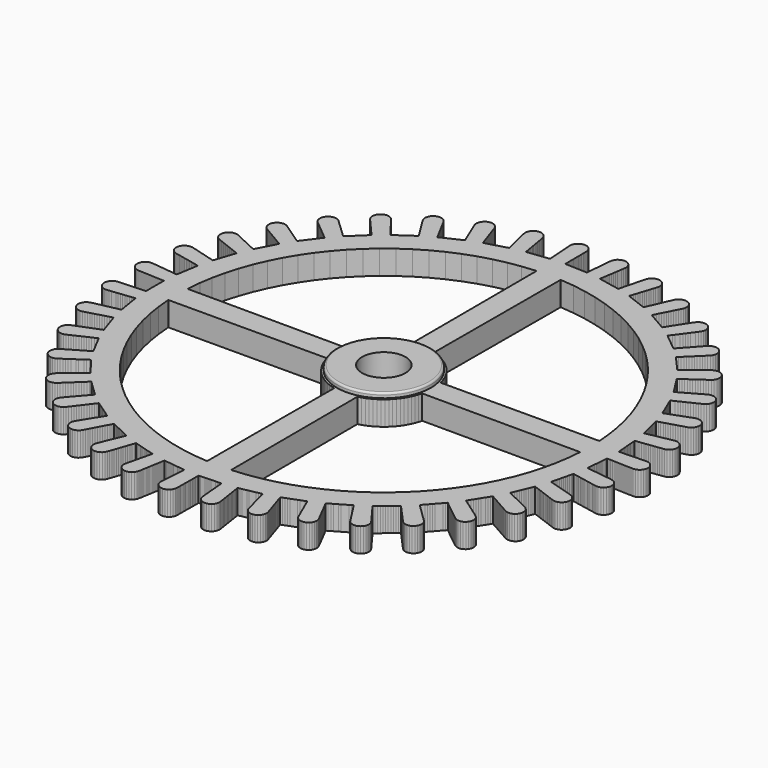
from build123d import *

# Parameters (mm, degrees)
F0_R     = 4.5
F1_DEPTH = 5
F2_R     = 9.75
F2_R_2   = 4.5
F3_DEPTH = 1
F4_R     = 0.4


with BuildPart() as f1:
    # F0 (on Top) → F1 (new body)
    with BuildSketch(Plane.XY):
        Polygon((45.239153, -1.909437), (45.270371, -1.52273), (45.6395, -1.534571), (46.060859, -1.548087), (46.482217, -1.561604), (46.931452, -1.576015), (47.35281, -1.589531), (47.774169, -1.603048), (48.223404, -1.617459), (48.644762, -1.630975), (49.066121, -1.644492), (49.515355, -1.658903), (49.936714, -1.672419), (50.358073, -1.685936), (50.807307, -1.700347), (51.252648, -1.648349), (51.668899, -1.481714), (52.027098, -1.212037), (52.302322, -0.858082), (52.47542, -0.444477), (52.534348, 0), (52.47542, 0.444477), (52.302322, 0.858082), (52.027098, 1.212037), (51.668899, 1.481714), (51.252648, 1.648349), (50.807307, 1.700347), (50.385949, 1.68683), (49.96459, 1.673313), (49.515355, 1.658903), (49.093997, 1.645386), (48.672638, 1.63187), (48.223404, 1.617459), (47.802045, 1.603942), (47.380686, 1.590426), (46.931452, 1.576015), (46.510093, 1.562498), (46.088734, 1.548982), (45.6395, 1.534571), (45.270371, 1.52273), (45.236448, 1.942938), (45.202525, 2.363147), (45.168603, 2.783355), (45.13468, 3.203564), (45.100757, 3.623772), (45.066834, 4.043981), (45.032912, 4.464189), (44.998989, 4.884398), (44.965066, 5.304606), (44.931143, 5.724814), (44.899925, 6.111521), (45.317996, 6.16577), (45.736066, 6.22002), (46.181795, 6.277858), (46.599865, 6.332107), (47.017936, 6.386356), (47.463664, 6.444194), (47.881735, 6.498443), (48.299805, 6.552692), (48.745534, 6.61053), (49.163604, 6.66478), (49.581675, 6.719029), (50.027403, 6.776867), (50.482257, 6.83974), (50.906394, 6.985137), (51.277757, 7.236376), (51.570508, 7.575977), (51.764277, 7.980311), (51.845582, 8.421244), (51.808847, 8.868111), (51.656861, 9.289932), (51.399868, 9.657337), (51.055748, 9.944763), (50.648445, 10.13221), (50.206299, 10.206637), (50.116377, 10.20736), (49.666917, 10.145597), (49.253183, 10.064664), (48.839449, 9.983732), (48.398344, 9.897446), (47.98461, 9.816513), (47.570876, 9.735581), (47.129771, 9.649295), (46.716036, 9.568363), (46.302302, 9.48743), (45.861197, 9.401144), (45.447463, 9.320212), (45.033729, 9.239279), (44.592624, 9.152993), (44.411399, 9.117543), (44.310509, 9.526868), (44.20962, 9.936194), (44.10873, 10.345519), (44.007841, 10.754844), (43.906951, 11.164169), (43.806061, 11.573495), (43.705172, 11.98282), (43.604282, 12.392145), (43.503392, 12.801471), (43.402503, 13.210796), (43.309657, 13.587487), (43.713611, 13.708097), (44.117566, 13.828707), (44.548244, 13.957296), (44.952199, 14.077906), (45.356153, 14.198516), (45.786832, 14.327105), (46.190786, 14.447714), (46.59474, 14.568324), (47.025419, 14.696913), (47.429373, 14.817523), (47.833328, 14.938133), (48.264006, 15.066722), (48.702884, 15.201745), (49.098205, 15.413295), (49.424458, 15.720852), (49.658942, 16.103016), (49.785342, 16.533196), (49.794863, 16.981461), (49.686921, 17.416649), (49.469239, 17.808627), (49.156638, 18.13005), (48.770868, 18.358553), (48.338771, 18.478237), (48.06971, 18.494014), (47.626587, 18.42565), (47.194615, 18.26994), (46.799221, 18.123688), (46.403827, 17.977436), (45.982276, 17.821509), (45.586882, 17.675257), (45.191488, 17.529006), (44.769936, 17.373078), (44.374542, 17.226826), (43.979148, 17.080575), (43.557597, 16.924647), (43.162203, 16.778396), (42.766809, 16.632144), (42.345257, 16.476216), (42.180014, 16.864057), (42.01477, 17.251898), (41.849527, 17.639739), (41.684283, 18.02758), (41.51904, 18.415421), (41.353796, 18.803261), (41.188553, 19.191102), (41.023309, 19.578943), (40.858066, 19.966784), (40.692822, 20.354625), (40.540753, 20.711544), (40.920129, 20.895391), (41.299505, 21.079238), (41.703979, 21.275247), (42.083355, 21.459094), (42.462732, 21.642941), (42.867206, 21.838951), (43.246582, 22.022797), (43.625958, 22.206644), (44.030432, 22.402654), (44.409808, 22.586501), (44.789185, 22.770347), (45.193659, 22.966357), (45.605194, 23.170032), (45.961461, 23.442256), (46.234153, 23.798165), (46.404298, 24.212994), (46.460055, 24.65788), (46.397546, 25.101867), (46.221193, 25.514105), (45.943452, 25.866088), (45.583339, 26.133204), (45.16591, 26.296866), (44.72021, 26.345687), (44.27725, 26.276269), (43.894918, 26.09865), (43.524046, 25.898202), (43.142266, 25.68351), (42.775453, 25.475727), (42.40864, 25.267943), (42.01756, 25.046413), (41.650747, 24.83863), (41.283933, 24.630846), (40.892853, 24.409317), (40.52604, 24.201533), (40.159227, 23.99375), (39.768147, 23.77222), (39.401333, 23.564436), (39.125457, 23.408165), (38.900139, 23.764476), (38.674822, 24.120788), (38.449504, 24.477099), (38.224186, 24.83341), (37.998869, 25.189722), (37.773551, 25.546033), (37.548233, 25.902345), (37.322915, 26.258656), (37.097598, 26.614968), (36.87228, 26.971279), (36.664926, 27.299183), (37.009898, 27.541505), (37.354871, 27.783828), (37.722665, 28.042181), (38.067637, 28.284503), (38.412609, 28.526826), (38.780404, 28.785179), (39.125376, 29.027501), (39.470348, 29.269824), (39.838142, 29.528177), (40.183114, 29.7705), (40.528087, 30.012822), (40.895881, 30.271175), (41.269415, 30.538228), (41.577401, 30.864076), (41.78947, 31.259119), (41.890868, 31.695869), (41.874538, 32.143938), (41.741618, 32.572149), (41.501421, 32.950758), (41.170815, 33.253631), (40.772517, 33.459521), (40.33424, 33.554104), (40.154521, 33.559022), (39.711727, 33.488552), (39.302764, 33.304754), (38.96816, 33.048305), (38.637907, 32.786277), (38.291199, 32.508467), (37.962467, 32.244533), (37.633735, 31.980599), (37.283255, 31.699205), (36.954523, 31.435271), (36.62579, 31.171337), (36.275311, 30.889943), (35.946578, 30.626009), (35.617846, 30.362075), (35.267366, 30.08068), (34.938634, 29.816747), (34.83539, 29.733854), (34.555834, 30.049408), (34.276277, 30.364961), (33.996721, 30.680515), (33.717165, 30.996069), (33.437609, 31.311623), (33.158052, 31.627177), (32.878496, 31.94273), (32.59894, 32.258284), (32.319383, 32.573838), (32.039827, 32.889392), (31.782559, 33.179788), (32.084193, 33.474309), (32.385826, 33.768831), (32.707415, 34.082837), (33.009049, 34.377359), (33.310682, 34.671881), (33.632271, 34.985887), (33.933905, 35.280409), (34.235538, 35.57493), (34.557127, 35.888936), (34.858761, 36.183458), (35.160394, 36.47798), (35.481983, 36.791986), (35.807842, 37.115499), (36.059569, 37.486532), (36.205523, 37.910478), (36.235548, 38.357838), (36.147554, 38.797484), (35.947666, 39.198828), (35.649846, 39.534005), (35.274937, 39.779922), (34.848769, 39.919255), (34.580713, 39.947328), (34.134925, 39.899314), (33.7172, 39.736408), (33.356604, 39.469945), (33.046474, 39.131324), (32.764337, 38.818076), (32.4822, 38.504827), (32.181397, 38.170856), (31.89926, 37.857608), (31.617123, 37.544359), (31.31632, 37.210388), (31.034183, 36.897139), (30.752046, 36.583891), (30.451243, 36.24992), (30.169106, 35.936671), (29.886968, 35.623423), (29.586166, 35.289452), (29.259612, 35.556075), (28.933057, 35.822699), (28.606503, 36.089322), (28.279948, 36.355946), (27.953394, 36.622569), (27.626839, 36.889192), (27.300285, 37.155816), (26.97373, 37.422439), (26.647176, 37.689063), (26.320621, 37.955686), (26.020102, 38.201053), (26.270585, 38.540146), (26.521068, 38.879239), (26.788122, 39.240766), (27.038605, 39.579859), (27.289088, 39.918952), (27.556142, 40.280478), (27.806625, 40.619572), (28.057108, 40.958665), (28.324162, 41.320191), (28.574645, 41.659284), (28.825128, 41.998377), (29.092182, 42.359904), (29.361926, 42.731499), (29.550875, 43.138107), (29.626933, 43.579975), (29.584808, 44.026358), (29.42743, 44.446197), (29.165749, 44.810279), (28.81802, 45.093341), (28.408518, 45.275934), (27.965519, 45.345101), (27.519847, 45.296027), (27.10251, 45.132129), (26.742549, 44.864809), (26.486555, 44.529857), (26.251317, 44.180015), (26.01304, 43.812494), (25.784805, 43.458044), (25.55657, 43.103594), (25.313235, 42.725696), (25.085, 42.371246), (24.856765, 42.016796), (24.613431, 41.638897), (24.385195, 41.284447), (24.15696, 40.929998), (23.913626, 40.552099), (23.685391, 40.197649), (23.513738, 39.931071), (23.148643, 40.141859), (22.783547, 40.352647), (22.418452, 40.563434), (22.053357, 40.774222), (21.688262, 40.98501), (21.323167, 41.195798), (20.958072, 41.406585), (20.592977, 41.617373), (20.227882, 41.828161), (19.862787, 42.038949), (19.526799, 42.232931), (19.719644, 42.607813), (19.912489, 42.982696), (20.118092, 43.382379), (20.310937, 43.757261), (20.503782, 44.132144), (20.709385, 44.531827), (20.90223, 44.906709), (21.095074, 45.281591), (21.300677, 45.681274), (21.493522, 46.056157), (21.686367, 46.431039), (21.89197, 46.830722), (22.098613, 47.240775), (22.219891, 47.672428), (22.224083, 48.120774), (22.110899, 48.554619), (21.888212, 48.943776), (21.571517, 49.261166), (21.182885, 49.484784), (20.749396, 49.599324), (20.57009, 49.612461), (20.124535, 49.562329), (19.70759, 49.397439), (19.348264, 49.129264), (19.071561, 48.776465), (18.894461, 48.393892), (18.723808, 48.008401), (18.545918, 47.60129), (18.377496, 47.214818), (18.209074, 46.828347), (18.02951, 46.416308), (17.861088, 46.029837), (17.692667, 45.643366), (17.513103, 45.231327), (17.344681, 44.844856), (17.176259, 44.458385), (16.996695, 44.046346), (16.828273, 43.659875), (16.775377, 43.538497), (16.381197, 43.68799), (15.987018, 43.837482), (15.592838, 43.986975), (15.198658, 44.136468), (14.804478, 44.285961), (14.410298, 44.435453), (14.016118, 44.584946), (13.621938, 44.734439), (13.227758, 44.883932), (12.833578, 45.033424), (12.470825, 45.170999), (12.601037, 45.571961), (12.731249, 45.972923), (12.870076, 46.400411), (13.000288, 46.801373), (13.1305, 47.202336), (13.269327, 47.629824), (13.399539, 48.030786), (13.529752, 48.431748), (13.668578, 48.859237), (13.79879, 49.260199), (13.929003, 49.661161), (14.067829, 50.08865), (14.206019, 50.526541), (14.256485, 50.972058), (14.188703, 51.415271), (14.00739, 51.825341), (13.725162, 52.173737), (13.361656, 52.436216), (12.942185, 52.594596), (12.585858, 52.63889), (12.140423, 52.587698), (11.723871, 52.421818), (11.365184, 52.15279), (11.08932, 51.799334), (10.915474, 51.386043), (10.811227, 50.977559), (10.706981, 50.569076), (10.595838, 50.133569), (10.491591, 49.725086), (10.387345, 49.316602), (10.276202, 48.881095), (10.171955, 48.472612), (10.067709, 48.064129), (9.956566, 47.628622), (9.852319, 47.220139), (9.748073, 46.811655), (9.63693, 46.376148), (9.545605, 46.018299), (9.13255, 46.102625), (8.719494, 46.18695), (8.306438, 46.271276), (7.893382, 46.355602), (7.480327, 46.439928), (7.067271, 46.524254), (6.654215, 46.60858), (6.24116, 46.692906), (5.828104, 46.777232), (5.415048, 46.861558), (5.034924, 46.939161), (5.099131, 47.355818), (5.163338, 47.772476), (5.231793, 48.216697), (5.296, 48.633355), (5.360208, 49.050012), (5.428662, 49.494234), (5.49287, 49.910891), (5.557077, 50.327549), (5.625532, 50.771771), (5.689739, 51.188428), (5.753946, 51.605085), (5.822401, 52.049307), (5.888559, 52.503695), (5.866905, 52.951538), (5.728905, 53.378138), (5.48416, 53.753814), (5.1497, 54.052425), (4.748796, 54.253195), (4.309351, 54.342237), (4.219506, 54.346006), (3.774195, 54.293756), (3.358038, 54.126885), (2.999992, 53.857005), (2.724969, 53.502894), (2.552105, 53.089191), (2.486382, 52.640293), (2.449011, 52.220378), (2.411639, 51.800462), (2.371796, 51.352766), (2.334425, 50.93285), (2.297054, 50.512934), (2.25721, 50.065238), (2.219839, 49.645322), (2.182468, 49.225407), (2.142624, 48.777711), (2.105253, 48.357795), (2.067882, 47.937879), (2.028038, 47.490183), (2.011669, 47.30625), (1.590435, 47.323226), (1.169202, 47.340201), (0.747968, 47.357176), (0.326735, 47.374151), (-0.094499, 47.391126), (-0.515733, 47.408101), (-0.936966, 47.425076), (-1.3582, 47.442052), (-1.779434, 47.459027), (-2.200667, 47.476002), (-2.588317, 47.491624), (-2.591778, 47.913185), (-2.595239, 48.334746), (-2.598929, 48.784196), (-2.602389, 49.205758), (-2.60585, 49.627319), (-2.60954, 50.076769), (-2.613001, 50.498331), (-2.616462, 50.919892), (-2.620151, 51.369342), (-2.623612, 51.790903), (-2.627073, 52.212465), (-2.630763, 52.661915), (-2.638351, 53.121031), (-2.731563, 53.559601), (-2.936208, 53.95854), (-3.238046, 54.290091), (-3.616075, 54.531184), (-4.043993, 54.665045), (-4.312387, 54.689681), (-4.757572, 54.636288), (-5.173331, 54.468429), (-5.530735, 54.197699), (-5.804915, 53.842935), (-5.976795, 53.428822), (-6.034415, 52.984174), (-6.005035, 52.525937), (-5.974563, 52.105464), (-5.944091, 51.684991), (-5.911603, 51.236701), (-5.881131, 50.816228), (-5.850659, 50.395756), (-5.818171, 49.947466), (-5.787699, 49.526993), (-5.757227, 49.10652), (-5.724739, 48.658231), (-5.694267, 48.237758), (-5.663795, 47.817285), (-5.631307, 47.368995), (-6.049809, 47.31818), (-6.46831, 47.267365), (-6.886812, 47.216549), (-7.305314, 47.165734), (-7.723816, 47.114919), (-8.142317, 47.064103), (-8.560819, 47.013288), (-8.979321, 46.962473), (-9.397823, 46.911657), (-9.816324, 46.860842), (-10.201461, 46.814078), (-10.2725, 47.229625), (-10.343539, 47.645172), (-10.419278, 48.08821), (-10.490317, 48.503757), (-10.561356, 48.919304), (-10.637095, 49.362343), (-10.708134, 49.77789), (-10.779173, 50.193437), (-10.854912, 50.636475), (-10.925951, 51.052022), (-10.996991, 51.467569), (-11.072729, 51.910607), (-11.153867, 52.36256), (-11.316223, 52.780498), (-11.582213, 53.141445), (-11.933326, 53.420284), (-12.345134, 53.597615), (-12.788983, 53.661099), (-13.234009, 53.6064), (-13.649368, 53.437553), (-14.006127, 53.165974), (-14.279464, 52.810559), (-14.450359, 52.396039), (-14.506921, 51.951255), (-14.442686, 51.534602), (-14.353335, 51.122604), (-14.253337, 50.696167), (-14.155811, 50.286027), (-14.058286, 49.875888), (-13.954308, 49.438614), (-13.856782, 49.028475), (-13.759256, 48.618335), (-13.655278, 48.181062), (-13.557752, 47.770922), (-13.460226, 47.360783), (-13.356248, 46.923509), (-13.258722, 46.51337), (-13.185373, 46.204908), (-13.590304, 46.087618), (-13.995235, 45.970329), (-14.400166, 45.853039), (-14.805097, 45.735749), (-15.210028, 45.61846), (-15.614959, 45.50117), (-16.01989, 45.38388), (-16.424821, 45.266591), (-16.829752, 45.149301), (-17.234683, 45.032011), (-17.60733, 44.924073), (-17.744107, 45.322843), (-17.880885, 45.721613), (-18.026711, 46.146765), (-18.163489, 46.545535), (-18.300267, 46.944306), (-18.446093, 47.369457), (-18.582871, 47.768227), (-18.719648, 48.166998), (-18.865475, 48.592149), (-19.002253, 48.99092), (-19.13903, 49.38969), (-19.284857, 49.814842), (-19.437442, 50.247927), (-19.664738, 50.634409), (-19.985182, 50.948013), (-20.376478, 51.166919), (-20.811399, 51.275895), (-20.990859, 51.286734), (-21.435735, 51.230896), (-21.85064, 51.060903), (-22.206752, 50.788477), (-22.479243, 50.432413), (-22.649152, 50.017488), (-22.704657, 49.572571), (-22.641897, 49.128619), (-22.488666, 48.735877), (-22.328865, 48.345762), (-22.158483, 47.935451), (-21.996429, 47.546267), (-21.834375, 47.157083), (-21.6616, 46.742152), (-21.499546, 46.352967), (-21.337492, 45.963783), (-21.164717, 45.548852), (-21.002663, 45.159668), (-20.840609, 44.770483), (-20.667834, 44.355552), (-20.50578, 43.966368), (-20.454884, 43.844138), (-20.835757, 43.663412), (-21.216629, 43.482685), (-21.597502, 43.301959), (-21.978374, 43.121233), (-22.359247, 42.940506), (-22.740119, 42.75978), (-23.120992, 42.579054), (-23.501865, 42.398328), (-23.882737, 42.217601), (-24.26361, 42.036875), (-24.614117, 41.870557), (-24.81309, 42.242223), (-25.012064, 42.613889), (-25.224201, 43.010142), (-25.423175, 43.381808), (-25.622148, 43.753474), (-25.834286, 44.149728), (-26.033259, 44.521393), (-26.232233, 44.893059), (-26.44437, 45.289313), (-26.643344, 45.660978), (-26.842317, 46.032644), (-27.054454, 46.428898), (-27.274535, 46.831898), (-27.560884, 47.176915), (-27.927485, 47.435055), (-28.348828, 47.588358), (-28.705694, 47.628082), (-29.150436, 47.571187), (-29.564828, 47.399982), (-29.920292, 47.12671), (-30.191936, 46.77), (-30.360858, 46.354672), (-30.415306, 45.909624), (-30.35149, 45.465822), (-30.173851, 45.054147), (-29.951466, 44.695998), (-29.729081, 44.337849), (-29.491984, 43.956006), (-29.269599, 43.597857), (-29.047213, 43.239708), (-28.810116, 42.857865), (-28.587731, 42.499715), (-28.365346, 42.141566), (-28.128249, 41.759723), (-27.905864, 41.401574), (-27.683479, 41.043425), (-27.446381, 40.661582), (-27.251562, 40.347828), (-27.598512, 40.108345), (-27.945462, 39.868863), (-28.292412, 39.629381), (-28.639361, 39.389899), (-28.986311, 39.150417), (-29.333261, 38.910934), (-29.680211, 38.671452), (-30.027161, 38.43197), (-30.374111, 38.192488), (-30.72106, 37.953006), (-31.040349, 37.732617), (-31.296366, 38.067552), (-31.552382, 38.402487), (-31.825336, 38.75958), (-32.081352, 39.094515), (-32.337368, 39.42945), (-32.610322, 39.786543), (-32.866338, 40.121478), (-33.122355, 40.456413), (-33.395308, 40.813507), (-33.651325, 41.148442), (-33.907341, 41.483377), (-34.180294, 41.84047), (-34.462171, 42.202948), (-34.800157, 42.497563), (-35.203418, 42.693554), (-35.643897, 42.777283), (-35.733784, 42.779901), (-36.178389, 42.721949), (-36.592373, 42.549759), (-36.947044, 42.275437), (-37.217839, 41.918082), (-37.385773, 41.502354), (-37.439163, 41.057178), (-37.374292, 40.613529), (-37.195675, 40.202277), (-36.917457, 39.843915), (-36.640501, 39.526077), (-36.363544, 39.208239), (-36.068265, 38.869374), (-35.791309, 38.551536), (-35.514353, 38.233698), (-35.219074, 37.894833), (-34.942117, 37.576994), (-34.665161, 37.259156), (-34.369882, 36.920291), (-34.092926, 36.602453), (-33.815969, 36.284615), (-33.52069, 35.94575), (-33.399377, 35.80653), (-33.703419, 35.514494), (-34.00746, 35.222459), (-34.311501, 34.930423), (-34.615543, 34.638387), (-34.919584, 34.346352), (-35.223625, 34.054316), (-35.527666, 33.76228), (-35.831708, 33.470245), (-36.135749, 33.178209), (-36.43979, 32.886174), (-36.719591, 32.617421), (-37.02602, 32.906951), (-37.332448, 33.196481), (-37.659149, 33.505165), (-37.965577, 33.794695), (-38.272006, 34.084224), (-38.598706, 34.392908), (-38.905135, 34.682438), (-39.211563, 34.971968), (-39.538264, 35.280652), (-39.844692, 35.570182), (-40.151121, 35.859712), (-40.477821, 36.168396), (-40.814193, 36.480964), (-41.195061, 36.717547), (-41.62454, 36.846312), (-41.893208, 36.867756), (-42.337674, 36.808747), (-42.751248, 36.635574), (-43.105153, 36.360287), (-43.375037, 36.002232), (-43.541983, 35.586106), (-43.594314, 35.140804), (-43.528389, 34.697311), (-43.348795, 34.286485), (-43.068028, 33.936911), (-42.717194, 33.640667), (-42.392839, 33.371372), (-42.068484, 33.102076), (-41.722671, 32.814966), (-41.398317, 32.54567), (-41.073962, 32.276375), (-40.728149, 31.989264), (-40.403794, 31.719969), (-40.07944, 31.450674), (-39.733627, 31.163563), (-39.409272, 30.894268), (-39.084918, 30.624973), (-38.739105, 30.337862), (-38.992363, 30.000836), (-39.245621, 29.663811), (-39.498879, 29.326785), (-39.752138, 28.98976), (-40.005396, 28.652734), (-40.258654, 28.315709), (-40.511912, 27.978683), (-40.76517, 27.641658), (-41.018429, 27.304632), (-41.271687, 26.967607), (-41.504754, 26.657451), (-41.853658, 26.894077), (-42.202562, 27.130703), (-42.574548, 27.382983), (-42.923452, 27.619609), (-43.272357, 27.856235), (-43.644343, 28.108515), (-43.993247, 28.345141), (-44.342151, 28.581767), (-44.714137, 28.834047), (-45.063042, 29.070673), (-45.411946, 29.307299), (-45.783932, 29.55958), (-46.166087, 29.814142), (-46.579974, 29.986566), (-47.024546, 30.04477), (-47.468871, 29.984705), (-47.882032, 29.810549), (-48.235282, 29.534421), (-48.504113, 29.175576), (-48.670069, 28.759054), (-48.721342, 28.313629), (-48.654363, 27.870294), (-48.473793, 27.459896), (-48.192196, 27.11099), (-47.847207, 26.86869), (-47.488177, 26.64773), (-47.11136, 26.424445), (-46.748007, 26.210667), (-46.384655, 25.996889), (-45.997264, 25.768969), (-45.633912, 25.555191), (-45.270559, 25.341413), (-44.883169, 25.113493), (-44.519817, 24.899715), (-44.156464, 24.685937), (-43.769074, 24.458017), (-43.405721, 24.244239), (-43.132448, 24.083459), (-43.328364, 23.710172), (-43.52428, 23.336886), (-43.720196, 22.963599), (-43.916111, 22.590313), (-44.112027, 22.217026), (-44.307943, 21.843739), (-44.503859, 21.470453), (-44.699775, 21.097166), (-44.895691, 20.72388), (-45.091607, 20.350593), (-45.271903, 20.007067), (-45.654247, 20.184661), (-46.03659, 20.362254), (-46.444228, 20.551597), (-46.826571, 20.72919), (-47.208914, 20.906784), (-47.616552, 21.096126), (-47.998896, 21.27372), (-48.381239, 21.451314), (-48.788877, 21.640656), (-49.17122, 21.81825), (-49.553563, 21.995843), (-49.961201, 22.185186), (-50.379243, 22.37515), (-50.815428, 22.478948), (-50.995004, 22.487654), (-51.439185, 22.426532), (-51.85193, 22.251395), (-52.204523, 21.974428), (-52.472429, 21.614902), (-52.637244, 21.197913), (-52.687458, 20.752368), (-52.619425, 20.309193), (-52.43788, 19.899225), (-52.155454, 19.55099), (-51.791799, 19.288717), (-51.402406, 19.127165), (-51.010356, 18.972172), (-50.596412, 18.810819), (-50.203472, 18.658096), (-49.810533, 18.505372), (-49.391598, 18.342545), (-48.998659, 18.189821), (-48.605719, 18.037098), (-48.186784, 17.874271), (-47.793845, 17.721547), (-47.400905, 17.568823), (-46.98197, 17.405996), (-46.589031, 17.253273), (-46.465622, 17.205307), (-46.599121, 16.805427), (-46.732621, 16.405548), (-46.86612, 16.005668), (-46.99962, 15.605788), (-47.133119, 15.205908), (-47.266618, 14.806029), (-47.400118, 14.406149), (-47.533617, 14.006269), (-47.667117, 13.60639), (-47.800616, 13.20651), (-47.923472, 12.838511), (-48.329352, 12.952473), (-48.735233, 13.066434), (-49.167964, 13.187935), (-49.573844, 13.301897), (-49.979725, 13.415858), (-50.412456, 13.537359), (-50.818336, 13.651321), (-51.224216, 13.765282), (-51.656948, 13.886783), (-52.062828, 14.000744), (-52.468708, 14.114706), (-52.90144, 14.236207), (-53.34454, 14.356652), (-53.701853, 14.392132), (-54.145887, 14.329955), (-54.558215, 14.153837), (-54.910148, 13.876033), (-55.177199, 13.515871), (-55.340785, 13.098413), (-55.389939, 12.652749), (-55.320853, 12.209737), (-55.138334, 11.800202), (-54.855082, 11.452639), (-54.490804, 11.191231), (-54.070848, 11.034167), (-53.658499, 10.946453), (-53.246149, 10.858739), (-52.80652, 10.765222), (-52.39417, 10.677508), (-51.981821, 10.589794), (-51.542192, 10.496278), (-51.129842, 10.408564), (-50.717493, 10.32085), (-50.277863, 10.227333), (-49.865514, 10.139619), (-49.453164, 10.051905), (-49.013535, 9.958388), (-48.652299, 9.881547), (-48.719924, 9.465431), (-48.787549, 9.049315), (-48.855175, 8.633198), (-48.9228, 8.217082), (-48.990426, 7.800966), (-49.058051, 7.38485), (-49.125677, 6.968733), (-49.193302, 6.552617), (-49.260928, 6.136501), (-49.328553, 5.720385), (-49.390787, 5.337444), (-49.809692, 5.384822), (-50.228597, 5.4322), (-50.675215, 5.482713), (-51.09412, 5.530091), (-51.513024, 5.577469), (-51.959642, 5.627981), (-52.378547, 5.675359), (-52.797452, 5.722737), (-53.24407, 5.773249), (-53.662975, 5.820627), (-54.08188, 5.868006), (-54.528498, 5.918518), (-54.985181, 5.966325), (-55.075092, 5.967875), (-55.518977, 5.904642), (-55.930886, 5.727545), (-56.282157, 5.448904), (-56.548351, 5.088109), (-56.710944, 4.670263), (-56.758792, 4.224444), (-56.688653, 3.781598), (-56.505161, 3.372498), (-56.221083, 3.025609), (-55.856185, 2.765067), (-55.435857, 2.609002), (-54.984677, 2.561407), (-54.563597, 2.540975), (-54.142516, 2.520542), (-53.693579, 2.498758), (-53.272499, 2.478325), (-52.851419, 2.457893), (-52.402482, 2.436109), (-51.981402, 2.415676), (-51.560322, 2.395244), (-51.111385, 2.373459), (-50.690305, 2.353027), (-50.269225, 2.332594), (-49.820287, 2.31081), (-49.635845, 2.30186), (-49.635845, 1.880284), (-49.635845, 1.458709), (-49.635845, 1.037133), (-49.635845, 0.615558), (-49.635845, 0.193982), (-49.635845, -0.227593), (-49.635845, -0.649169), (-49.635845, -1.070744), (-49.635845, -1.49232), (-49.635845, -1.913895), (-49.635845, -2.30186), (-50.056925, -2.322293), (-50.478005, -2.342725), (-50.926942, -2.364509), (-51.348022, -2.384942), (-51.769102, -2.405374), (-52.218039, -2.427159), (-52.63912, -2.447591), (-53.0602, -2.468024), (-53.509137, -2.489808), (-53.930217, -2.510241), (-54.351297, -2.530673), (-54.800234, -2.552458), (-55.258672, -2.578526), (-55.693133, -2.689322), (-56.083509, -2.909865), (-56.402637, -3.224808), (-56.628313, -3.612239), (-56.744834, -4.0452), (-56.744176, -4.493574), (-56.626626, -4.926257), (-56.40003, -5.31315), (-56.080154, -5.627334), (-55.689255, -5.846948), (-55.254532, -5.956711), (-54.833174, -5.943166), (-54.41341, -5.904127), (-53.978029, -5.85626), (-53.559124, -5.808882), (-53.140219, -5.761504), (-52.693601, -5.710992), (-52.274696, -5.663614), (-51.855791, -5.616235), (-51.409173, -5.565723), (-50.990269, -5.518345), (-50.571364, -5.470967), (-50.124746, -5.420455), (-49.705841, -5.373077), (-49.390787, -5.337444), (-49.323162, -5.75356), (-49.255536, -6.169676), (-49.187911, -6.585793), (-49.120285, -7.001909), (-49.05266, -7.418025), (-48.985034, -7.834141), (-48.917409, -8.250258), (-48.849783, -8.666374), (-48.782158, -9.08249), (-48.714532, -9.498606), (-48.652299, -9.881547), (-49.064648, -9.969261), (-49.476998, -10.056975), (-49.916627, -10.150492), (-50.328976, -10.238206), (-50.741326, -10.32592), (-51.180955, -10.419436), (-51.593305, -10.50715), (-52.005654, -10.594864), (-52.445283, -10.688381), (-52.857633, -10.776095), (-53.269983, -10.863809), (-53.709612, -10.957326), (-54.157931, -11.056596), (-54.568993, -11.235649), (-54.918936, -11.515956), (-55.183411, -11.878013), (-55.344017, -12.296628), (-55.389577, -12.742673), (-55.317003, -13.185136), (-55.131568, -13.593359), (-54.845844, -13.938893), (-54.479712, -14.197697), (-54.058646, -14.351762), (-53.611946, -14.390369), (-53.198217, -14.309409), (-52.790151, -14.203541), (-52.368086, -14.086454), (-51.962206, -13.972492), (-51.556326, -13.858531), (-51.123594, -13.73703), (-50.717714, -13.623068), (-50.311834, -13.509107), (-49.879103, -13.387606), (-49.473222, -13.273644), (-49.067342, -13.159683), (-48.634611, -13.038182), (-48.22873, -12.92422), (-47.923472, -12.838511), (-47.789973, -13.238391), (-47.656473, -13.638271), (-47.522974, -14.03815), (-47.389474, -14.43803), (-47.255975, -14.83791), (-47.122476, -15.237789), (-46.988976, -15.637669), (-46.855477, -16.037549), (-46.721977, -16.437429), (-46.588478, -16.837308), (-46.465622, -17.205307), (-46.858561, -17.358031), (-47.251501, -17.510754), (-47.670435, -17.673582), (-48.063375, -17.826305), (-48.456314, -17.979029), (-48.875249, -18.141856), (-49.268189, -18.29458), (-49.661128, -18.447303), (-50.080063, -18.61013), (-50.473002, -18.762854), (-50.865942, -18.915578), (-51.284877, -19.078405), (-51.711467, -19.248305), (-52.088483, -19.490979), (-52.38893, -19.823791), (-52.591902, -20.223584), (-52.683277, -20.66254), (-52.656697, -21.110118), (-52.514087, -21.535209), (-52.26557, -21.9084), (-51.928118, -22.203626), (-51.525212, -22.400347), (-51.084886, -22.484873), (-50.637777, -22.451325), (-50.242392, -22.305046), (-49.856593, -22.13509), (-49.458776, -21.951816), (-49.076433, -21.774222), (-48.69409, -21.596629), (-48.286452, -21.407286), (-47.904109, -21.229693), (-47.521765, -21.052099), (-47.114127, -20.862757), (-46.731784, -20.685163), (-46.349441, -20.50757), (-45.941803, -20.318227), (-45.55946, -20.140634), (-45.271903, -20.007067), (-45.075987, -20.380354), (-44.880071, -20.753641), (-44.684155, -21.126927), (-44.48824, -21.500214), (-44.292324, -21.8735), (-44.096408, -22.246787), (-43.900492, -22.620073), (-43.704576, -22.99336), (-43.50866, -23.366647), (-43.312744, -23.739933), (-43.132448, -24.083459), (-43.4958, -24.297237), (-43.859153, -24.511014), (-44.246543, -24.738935), (-44.609896, -24.952713), (-44.973248, -25.166491), (-45.360638, -25.394411), (-45.723991, -25.608189), (-46.087343, -25.821967), (-46.474734, -26.049887), (-46.838086, -26.263665), (-47.201438, -26.477443), (-47.588829, -26.705363), (-47.982641, -26.941493), (-48.315847, -27.241502), (-48.559017, -27.618199), (-48.695229, -28.045374), (-48.715007, -28.493304), (-48.616975, -28.930822), (-48.408022, -29.327532), (-48.102859, -29.656025), (-47.72242, -29.893297), (-47.293175, -30.022839), (-46.844992, -30.035638), (-46.409054, -29.930803), (-46.042255, -29.722995), (-45.688715, -29.493353), (-45.325449, -29.248637), (-44.976544, -29.012011), (-44.62764, -28.775385), (-44.255654, -28.523105), (-43.90675, -28.286479), (-43.557846, -28.049853), (-43.185859, -27.797573), (-42.836955, -27.560947), (-42.488051, -27.324321), (-42.116065, -27.072041), (-41.767161, -26.835415), (-41.504754, -26.657451), (-41.251496, -26.994477), (-40.998237, -27.331502), (-40.744979, -27.668528), (-40.491721, -28.005553), (-40.238463, -28.342579), (-39.985204, -28.679604), (-39.731946, -29.01663), (-39.478688, -29.353655), (-39.22543, -29.690681), (-38.972172, -30.027706), (-38.739105, -30.337862), (-39.063459, -30.607157), (-39.387814, -30.876452), (-39.733627, -31.163563), (-40.057982, -31.432858), (-40.382336, -31.702154), (-40.728149, -31.989264), (-41.052504, -32.25856), (-41.376859, -32.527855), (-41.722671, -32.814966), (-42.047026, -33.084261), (-42.371381, -33.353556), (-42.717194, -33.640667), (-43.068028, -33.936911), (-43.348795, -34.286485), (-43.528389, -34.697311), (-43.594314, -35.140804), (-43.541983, -35.586106), (-43.375037, -36.002232), (-43.105153, -36.360287), (-42.751248, -36.635574), (-42.337674, -36.808747), (-41.893208, -36.867756), (-41.448775, -36.808496), (-41.0353, -36.635088), (-40.706585, -36.371133), (-40.39446, -36.087753), (-40.075154, -35.787934), (-39.768725, -35.498405), (-39.462297, -35.208875), (-39.135596, -34.900191), (-38.829168, -34.610661), (-38.522739, -34.321131), (-38.196039, -34.012447), (-37.88961, -33.722917), (-37.583182, -33.433387), (-37.256481, -33.124703), (-36.950053, -32.835173), (-36.719591, -32.617421), (-36.41555, -32.909457), (-36.111509, -33.201492), (-35.807468, -33.493528), (-35.503426, -33.785563), (-35.199385, -34.077599), (-34.895344, -34.369635), (-34.591302, -34.66167), (-34.287261, -34.953706), (-33.98322, -35.245742), (-33.679179, -35.537777), (-33.399377, -35.80653), (-33.676334, -36.124368), (-33.95329, -36.442206), (-34.248569, -36.781071), (-34.525525, -37.098909), (-34.802482, -37.416747), (-35.097761, -37.755612), (-35.374717, -38.073451), (-35.651673, -38.391289), (-35.946952, -38.730154), (-36.223909, -39.047992), (-36.500865, -39.36583), (-36.796144, -39.704695), (-37.094914, -40.05338), (-37.315969, -40.443466), (-37.427337, -40.877781), (-37.421267, -41.326106), (-37.298182, -41.757246), (-37.066646, -42.141204), (-36.742822, -42.45133), (-36.34934, -42.666282), (-35.913343, -42.77087), (-35.465167, -42.757818), (-35.035996, -42.628033), (-34.655691, -42.390545), (-34.373575, -42.077278), (-34.110949, -41.747499), (-33.843872, -41.400343), (-33.587855, -41.065408), (-33.331839, -40.730473), (-33.058885, -40.37338), (-32.802869, -40.038444), (-32.546853, -39.703509), (-32.273899, -39.346416), (-32.017883, -39.011481), (-31.761866, -38.676546), (-31.488913, -38.319453), (-31.232896, -37.984518), (-31.040349, -37.732617), (-30.693399, -37.972099), (-30.34645, -38.211581), (-29.9995, -38.451063), (-29.65255, -38.690545), (-29.3056, -38.930028), (-28.95865, -39.16951), (-28.6117, -39.408992), (-28.26475, -39.648474), (-27.917801, -39.887956), (-27.570851, -40.127438), (-27.251562, -40.347828), (-27.473947, -40.705977), (-27.696332, -41.064126), (-27.933429, -41.445969), (-28.155815, -41.804118), (-28.3782, -42.162267), (-28.615297, -42.54411), (-28.837682, -42.902259), (-29.060067, -43.260408), (-29.297164, -43.642251), (-29.519549, -44.0004), (-29.741934, -44.358549), (-29.979032, -44.740392), (-30.218, -45.132488), (-30.373619, -45.552982), (-30.413874, -45.999537), (-30.335967, -46.441083), (-30.145316, -46.846896), (-29.855188, -47.188741), (-29.485809, -47.442905), (-29.062942, -47.591955), (-28.615814, -47.62525), (-28.175535, -47.540474), (-27.772741, -47.343526), (-27.435457, -47.048108), (-27.207245, -46.693643), (-27.000921, -46.326007), (-26.79299, -45.940504), (-26.594016, -45.568838), (-26.395042, -45.197173), (-26.182905, -44.800919), (-25.983932, -44.429253), (-25.784958, -44.057588), (-25.572821, -43.661334), (-25.373847, -43.289668), (-25.174873, -42.918003), (-24.962736, -42.521749), (-24.763763, -42.150083), (-24.614117, -41.870557), (-24.233244, -42.051284), (-23.852372, -42.23201), (-23.471499, -42.412736), (-23.090626, -42.593463), (-22.709754, -42.774189), (-22.328881, -42.954915), (-21.948009, -43.135641), (-21.567136, -43.316368), (-21.186263, -43.497094), (-20.805391, -43.67782), (-20.454884, -43.844138), (-20.616938, -44.233322), (-20.778992, -44.622506), (-20.951767, -45.037438), (-21.113821, -45.426622), (-21.275875, -45.815806), (-21.44865, -46.230737), (-21.610704, -46.619922), (-21.772758, -47.009106), (-21.945533, -47.424037), (-22.107588, -47.813221), (-22.269642, -48.202406), (-22.442417, -48.617337), (-22.615394, -49.042688), (-22.701545, -49.4827), (-22.669647, -49.92993), (-22.521919, -50.35326), (-22.26864, -50.723236), (-21.927434, -51.014114), (-21.522067, -51.205734), (-21.080767, -51.285022), (-20.634088, -51.246161), (-20.21311, -51.091858), (-19.847125, -50.832847), (-19.561597, -50.48715), (-19.393201, -50.100668), (-19.248521, -49.704696), (-19.105122, -49.290831), (-18.968344, -48.89206), (-18.831566, -48.49329), (-18.68574, -48.068138), (-18.548962, -47.669368), (-18.412185, -47.270598), (-18.266358, -46.845446), (-18.12958, -46.446676), (-17.992803, -46.047906), (-17.846976, -45.622754), (-17.710199, -45.223984), (-17.60733, -44.924073), (-17.202399, -45.041362), (-16.797468, -45.158652), (-16.392537, -45.275942), (-15.987606, -45.393231), (-15.582675, -45.510521), (-15.177744, -45.627811), (-14.772813, -45.7451), (-14.367882, -45.86239), (-13.962952, -45.97968), (-13.558021, -46.096969), (-13.185373, -46.204908), (-13.282899, -46.615048), (-13.380425, -47.025187), (-13.484403, -47.462461), (-13.581929, -47.8726), (-13.679455, -48.28274), (-13.783433, -48.720013), (-13.880959, -49.130153), (-13.978485, -49.540292), (-14.082463, -49.977566), (-14.179989, -50.387705), (-14.277515, -50.797845), (-14.381493, -51.235118), (-14.483999, -51.682709), (-14.498452, -52.130842), (-14.395226, -52.567164), (-14.181505, -52.961315), (-13.872157, -53.285871), (-13.488709, -53.518249), (-13.057854, -53.642362), (-12.60955, -53.649833), (-12.174889, -53.539824), (-11.784115, -53.319988), (-11.464417, -53.005623), (-11.23804, -52.618602), (-11.133821, -52.210112), (-11.054533, -51.796059), (-10.979379, -51.36455), (-10.90834, -50.949003), (-10.837301, -50.533456), (-10.761562, -50.090418), (-10.690523, -49.674871), (-10.619484, -49.259324), (-10.543745, -48.816286), (-10.472706, -48.400739), (-10.401666, -47.985192), (-10.325928, -47.542154), (-10.254888, -47.126607), (-10.201461, -46.814078), (-9.782959, -46.864893), (-9.364457, -46.915709), (-8.945955, -46.966524), (-8.527454, -47.017339), (-8.108952, -47.068155), (-7.69045, -47.11897), (-7.271948, -47.169785), (-6.853447, -47.220601), (-6.434945, -47.271416), (-6.016443, -47.322231), (-5.631307, -47.368995), (-5.661779, -47.789468), (-5.692251, -48.209941), (-5.724739, -48.658231), (-5.755211, -49.078703), (-5.785683, -49.499176), (-5.818171, -49.947466), (-5.848643, -50.367939), (-5.879115, -50.788411), (-5.911603, -51.236701), (-5.942075, -51.657174), (-5.972547, -52.077647), (-6.005035, -52.525937), (-6.034415, -52.984174), (-5.976795, -53.428822), (-5.804915, -53.842935), (-5.530735, -54.197699), (-5.173331, -54.468429), (-4.757572, -54.636288), (-4.312387, -54.689681), (-3.868691, -54.625142), (-3.457305, -54.446833), (-3.106855, -54.16716), (-2.841725, -53.805582), (-2.680362, -53.387259), (-2.643019, -52.967341), (-2.631176, -52.545932), (-2.626215, -52.107955), (-2.622754, -51.686394), (-2.619293, -51.264833), (-2.615604, -50.815382), (-2.612143, -50.393821), (-2.608682, -49.97226), (-2.604992, -49.52281), (-2.601531, -49.101248), (-2.598071, -48.679687), (-2.594381, -48.230237), (-2.59092, -47.808675), (-2.588317, -47.491624), (-2.167084, -47.474648), (-1.74585, -47.457673), (-1.324616, -47.440698), (-0.903383, -47.423723), (-0.482149, -47.406748), (-0.060916, -47.389773), (0.360318, -47.372798), (0.781552, -47.355823), (1.202785, -47.338847), (1.624019, -47.321872), (2.011669, -47.30625), (2.04904, -47.726166), (2.086411, -48.146082), (2.126255, -48.593778), (2.163626, -49.013694), (2.200997, -49.43361), (2.240841, -49.881306), (2.278212, -50.301221), (2.315583, -50.721137), (2.355427, -51.168833), (2.392798, -51.588749), (2.430169, -52.008665), (2.470012, -52.456361), (2.514519, -52.913377), (2.64272, -53.343025), (2.878802, -53.724203), (3.20634, -54.030391), (3.602544, -54.240284), (4.039845, -54.339277), (4.487829, -54.320565), (4.915428, -54.185688), (5.292883, -53.943697), (5.593932, -53.61143), (5.797628, -53.212005), (5.889797, -52.773215), (5.859297, -52.352744), (5.803388, -51.934892), (5.738029, -51.501791), (5.673821, -51.085134), (5.609614, -50.668477), (5.541159, -50.224255), (5.476952, -49.807598), (5.412745, -49.39094), (5.34429, -48.946718), (5.280083, -48.530061), (5.215875, -48.113404), (5.147421, -47.669182), (5.083213, -47.252524), (5.034924, -46.939161), (5.44798, -46.854835), (5.861035, -46.770509), (6.274091, -46.686183), (6.687147, -46.601857), (7.100202, -46.517531), (7.513258, -46.433205), (7.926314, -46.348879), (8.33937, -46.264553), (8.752425, -46.180227), (9.165481, -46.095902), (9.545605, -46.018299), (9.649852, -46.426782), (9.754098, -46.835265), (9.865241, -47.270772), (9.969488, -47.679255), (10.073734, -48.087739), (10.184877, -48.523246), (10.289124, -48.931729), (10.39337, -49.340212), (10.504513, -49.775719), (10.60876, -50.184203), (10.713006, -50.592686), (10.824149, -51.028193), (10.941391, -51.472152), (11.136851, -51.875671), (11.431022, -52.214043), (11.803434, -52.463725), (12.228176, -52.607344), (12.675694, -52.634907), (13.114876, -52.544576), (13.515301, -52.342854), (13.84905, -52.043448), (14.092901, -51.667192), (14.229887, -51.240265), (14.250476, -50.792371), (14.152923, -50.382238), (14.030709, -49.978766), (13.896722, -49.561758), (13.766509, -49.160796), (13.636297, -48.759834), (13.497471, -48.332346), (13.367258, -47.931383), (13.237046, -47.530421), (13.098219, -47.102933), (12.968007, -46.701971), (12.837795, -46.301009), (12.698968, -45.87352), (12.568756, -45.472558), (12.470825, -45.170999), (12.865005, -45.021506), (13.259184, -44.872013), (13.653364, -44.72252), (14.047544, -44.573028), (14.441724, -44.423535), (14.835904, -44.274042), (15.230084, -44.124549), (15.624264, -43.975057), (16.018444, -43.825564), (16.412624, -43.676071), (16.775377, -43.538497), (16.943799, -43.924968), (17.112221, -44.311439), (17.291785, -44.723478), (17.460207, -45.109949), (17.628629, -45.496421), (17.808193, -45.908459), (17.976615, -46.294931), (18.145036, -46.681402), (18.3246, -47.093441), (18.493022, -47.479912), (18.661444, -47.866383), (18.841008, -48.278422), (19.027947, -48.697824), (19.285605, -49.064764), (19.630245, -49.351566), (20.037887, -49.538276), (20.480167, -49.611901), (20.926311, -49.567321), (21.345315, -49.40771), (21.708196, -49.144367), (21.989596, -48.795302), (22.169933, -48.384801), (22.236661, -47.941428), (22.185136, -47.496032), (22.023056, -47.106859), (21.837703, -46.728216), (21.638559, -46.338102), (21.445714, -45.963219), (21.252869, -45.588337), (21.047266, -45.188654), (20.854421, -44.813772), (20.661576, -44.438889), (20.455973, -44.039206), (20.263129, -43.664324), (20.070284, -43.289442), (19.864681, -42.889758), (19.671836, -42.514876), (19.526799, -42.232931), (19.891894, -42.022143), (20.256989, -41.811356), (20.622085, -41.600568), (20.98718, -41.38978), (21.352275, -41.178992), (21.71737, -40.968205), (22.082465, -40.757417), (22.44756, -40.546629), (22.812655, -40.335841), (23.17775, -40.125054), (23.513738, -39.931071), (23.741973, -40.285521), (23.970208, -40.639971), (24.213542, -41.01787), (24.441777, -41.372319), (24.670013, -41.726769), (24.913347, -42.104668), (25.141582, -42.459118), (25.369817, -42.813567), (25.613152, -43.191466), (25.841387, -43.545916), (26.069622, -43.900366), (26.312956, -44.278265), (26.564751, -44.662249), (26.877934, -44.983105), (27.264117, -45.210909), (27.69643, -45.329811), (28.144793, -45.331537), (28.578009, -45.215967), (28.965983, -44.991209), (29.281923, -44.673067), (29.503684, -44.283382), (29.615837, -43.849269), (29.610579, -43.400934), (29.488275, -42.969571), (29.265866, -42.611437), (29.022175, -42.26743), (28.76303, -41.914313), (28.512547, -41.575219), (28.262064, -41.236126), (27.99501, -40.8746), (27.744527, -40.535507), (27.494044, -40.196414), (27.22699, -39.834887), (26.976507, -39.495794), (26.726024, -39.156701), (26.45897, -38.795174), (26.208487, -38.456081), (26.020102, -38.201053), (26.346656, -37.934429), (26.673211, -37.667806), (26.999765, -37.401182), (27.32632, -37.134559), (27.652874, -36.867936), (27.979429, -36.601312), (28.305983, -36.334689), (28.632538, -36.068065), (28.959092, -35.801442), (29.285647, -35.534818), (29.586166, -35.289452), (29.868303, -35.6027), (30.150441, -35.915948), (30.451243, -36.24992), (30.73338, -36.563168), (31.015518, -36.876416), (31.31632, -37.210388), (31.598457, -37.523636), (31.880595, -37.836884), (32.181397, -38.170856), (32.463534, -38.484104), (32.745672, -38.797352), (33.046474, -39.131324), (33.356604, -39.469945), (33.7172, -39.736408), (34.134925, -39.899314), (34.580713, -39.947328), (35.023546, -39.877109), (35.432613, -39.693543), (35.77951, -39.409461), (36.040324, -39.044758), (36.196704, -38.624546), (36.237768, -38.178065), (36.16066, -37.736379), (35.970744, -37.330221), (35.693767, -37.012401), (35.398049, -36.71194), (35.085616, -36.404965), (34.783982, -36.110443), (34.482349, -35.815921), (34.16076, -35.501915), (33.859126, -35.207393), (33.557493, -34.912872), (33.235904, -34.598866), (32.93427, -34.304344), (32.632637, -34.009822), (32.311048, -33.695816), (32.009414, -33.401294), (31.782559, -33.179788), (32.062115, -32.864234), (32.341671, -32.54868), (32.621228, -32.233126), (32.900784, -31.917572), (33.18034, -31.602019), (33.459897, -31.286465), (33.739453, -30.970911), (34.019009, -30.655357), (34.298565, -30.339803), (34.578122, -30.02425), (34.83539, -29.733854), (35.164122, -29.997787), (35.492854, -30.261721), (35.843334, -30.543116), (36.172067, -30.80705), (36.500799, -31.070983), (36.851279, -31.352378), (37.180011, -31.616312), (37.508743, -31.880245), (37.859223, -32.16164), (38.187955, -32.425574), (38.516688, -32.689508), (38.867168, -32.970902), (39.2276, -33.25539), (39.62627, -33.460559), (40.064718, -33.554348), (40.512435, -33.53023), (40.93827, -33.389885), (41.312593, -33.143077), (41.609428, -32.807028), (41.808362, -32.40521), (41.89531, -31.965355), (41.864221, -31.518068), (41.71726, -31.094471), (41.464652, -30.724037), (41.140279, -30.454764), (40.800193, -30.20563), (40.442564, -29.952748), (40.097592, -29.710425), (39.75262, -29.468103), (39.384826, -29.209749), (39.039853, -28.967427), (38.694881, -28.725105), (38.327087, -28.466751), (37.982115, -28.224429), (37.637143, -27.982107), (37.269348, -27.723753), (36.924376, -27.481431), (36.664926, -27.299183), (36.890244, -26.942872), (37.115562, -26.58656), (37.340879, -26.230249), (37.566197, -25.873937), (37.791515, -25.517626), (38.016832, -25.161314), (38.24215, -24.805003), (38.467468, -24.448692), (38.692785, -24.09238), (38.918103, -23.736069), (39.125457, -23.408165), (39.49227, -23.615948), (39.859084, -23.823732), (40.250164, -24.045261), (40.616977, -24.253045), (40.98379, -24.460828), (41.37487, -24.682358), (41.741684, -24.890142), (42.108497, -25.097925), (42.499577, -25.319455), (42.86639, -25.527238), (43.233203, -25.735022), (43.624284, -25.956552), (44.025684, -26.179538), (44.452103, -26.318099), (44.899917, -26.340341), (45.337967, -26.244717), (45.735775, -26.037881), (46.06566, -25.734223), (46.304745, -25.35491), (46.436647, -24.926384), (46.451911, -24.478278), (46.349475, -24.04177), (46.136467, -23.647232), (45.827708, -23.322117), (45.464342, -23.108364), (45.088696, -22.91701), (44.695133, -22.72477), (44.315757, -22.540923), (43.936381, -22.357076), (43.531907, -22.161067), (43.152531, -21.97722), (42.773154, -21.793373), (42.36868, -21.597363), (41.989304, -21.413517), (41.609928, -21.22967), (41.205454, -21.03366), (40.826078, -20.849813), (40.540753, -20.711544), (40.705996, -20.323703), (40.87124, -19.935863), (41.036483, -19.548022), (41.201727, -19.160181), (41.36697, -18.77234), (41.532214, -18.384499), (41.697457, -17.996659), (41.862701, -17.608818), (42.027944, -17.220977), (42.193188, -16.833136), (42.345257, -16.476216), (42.740651, -16.622468), (43.136045, -16.76872), (43.557597, -16.924647), (43.952991, -17.070899), (44.348384, -17.217151), (44.769936, -17.373078), (45.16533, -17.51933), (45.560724, -17.665582), (45.982276, -17.821509), (46.37767, -17.967761), (46.773063, -18.114013), (47.194615, -18.26994), (47.626587, -18.42565), (48.06971, -18.494014), (48.515293, -18.444133), (48.932332, -18.27948), (49.291809, -18.011509), (49.568712, -17.658866), (49.743855, -17.246113), (49.805308, -16.801978), (49.748493, -16.357226), (49.577364, -15.942803), (49.303826, -15.587543), (48.946913, -15.316166), (48.553963, -15.163469), (48.152487, -15.034851), (47.733183, -14.908233), (47.329229, -14.787623), (46.925274, -14.667013), (46.494596, -14.538424), (46.090641, -14.417814), (45.686687, -14.297204), (45.256008, -14.168615), (44.852054, -14.048005), (44.4481, -13.927395), (44.017421, -13.798806), (43.613467, -13.678196), (43.309657, -13.587487), (43.410546, -13.178162), (43.511436, -12.768836), (43.612326, -12.359511), (43.713215, -11.950186), (43.814105, -11.540861), (43.914995, -11.131535), (44.015884, -10.72221), (44.116774, -10.312885), (44.217663, -9.903559), (44.318553, -9.494234), (44.411399, -9.117543), (44.825133, -9.198475), (45.238867, -9.279407), (45.679972, -9.365694), (46.093707, -9.446626), (46.507441, -9.527558), (46.948546, -9.613845), (47.36228, -9.694777), (47.776014, -9.775709), (48.217119, -9.861996), (48.630853, -9.942928), (49.044587, -10.02386), (49.485693, -10.110146), (49.937048, -10.194547), (50.385399, -10.190943), (50.817211, -10.070232), (51.202437, -9.840813), (51.514273, -9.518648), (51.731023, -9.126154), (51.837687, -8.690651), (51.8271, -8.24241), (51.699678, -7.812531), (51.464286, -7.430925), (51.137303, -7.124145), (50.74148, -6.913535), (50.329125, -6.825849), (49.912216, -6.763297), (49.478031, -6.70558), (49.05996, -6.651331), (48.64189, -6.597082), (48.196161, -6.539243), (47.778091, -6.484994), (47.36002, -6.430745), (46.914292, -6.372907), (46.496221, -6.318658), (46.078151, -6.264409), (45.632422, -6.206571), (45.214352, -6.152321), (44.899925, -6.111521), (44.933848, -5.691313), (44.967771, -5.271104), (45.001693, -4.850896), (45.035616, -4.430687), (45.069539, -4.010479), (45.103462, -3.59027), (45.137384, -3.170062), (45.171307, -2.749853), (45.20523, -2.329645), align=None)
        Polygon((-4.722423, -9.830444), (-4.601085, -9.857544), (-4.694347, -42.663086), (-4.882335, -42.657166), (-7.555553, -42.40448), (-10.207286, -41.984497), (-12.828197, -41.398621), (-15.4062, -40.649658), (-17.932811, -39.740051), (-20.397044, -38.673645), (-22.789256, -37.454712), (-25.10023, -36.088074), (-27.32075, -34.578979), (-29.443309, -32.932556), (-31.457042, -31.157166), (-33.355602, -29.258606), (-35.130992, -27.244873), (-36.777415, -25.122314), (-38.28651, -22.901794), (-39.653148, -20.59082), (-40.872081, -18.198608), (-41.938487, -15.734375), (-42.848094, -13.207764), (-43.597057, -10.629761), (-44.182933, -8.00885), (-44.602916, -5.357117), (-44.855602, -2.683899), (-44.861522, -2.495911), (-12.05598, -2.402649), (-12.02888, -2.523987), (-11.850963, -3.136292), (-11.63502, -3.736206), (-11.381786, -4.32135), (-11.092296, -4.889465), (-10.767772, -5.438232), (-10.409374, -5.965576), (-10.018565, -6.469421), (-9.596935, -6.947632), (-9.146068, -7.398499), (-8.667857, -7.820129), (-8.164012, -8.210938), (-7.636668, -8.569336), (-7.087901, -8.89386), (-6.519786, -9.18335), (-5.934642, -9.436584), (-5.334728, -9.652527), align=None, mode=Mode.SUBTRACT)
        with Locations((-2.198436, 0)):
            Circle(F0_R, mode=Mode.SUBTRACT)
        Polygon((3.158681, -42.40448), (0.485463, -42.657166), (0.297475, -42.663086), (0.204213, -9.857544), (0.325551, -9.830444), (0.937856, -9.652527), (1.53777, -9.436584), (2.122914, -9.18335), (2.691029, -8.89386), (3.239796, -8.569336), (3.76714, -8.210938), (4.270985, -7.820129), (4.749196, -7.398499), (5.200063, -6.947632), (5.621693, -6.469421), (6.012502, -5.965576), (6.3709, -5.438232), (6.695424, -4.889465), (6.984914, -4.32135), (7.238148, -3.736206), (7.454091, -3.136292), (7.632008, -2.523987), (7.659108, -2.402649), (40.46465, -2.495911), (40.45873, -2.683899), (40.206044, -5.357117), (39.786061, -8.00885), (39.200185, -10.629761), (38.451222, -13.207764), (37.541615, -15.734375), (36.475209, -18.198608), (35.256276, -20.59082), (33.889638, -22.901794), (32.380543, -25.122314), (30.73412, -27.244873), (28.95873, -29.258606), (27.06017, -31.157166), (25.046437, -32.932556), (22.923878, -34.578979), (20.703358, -36.088074), (18.392384, -37.454712), (16.000172, -38.673645), (13.535939, -39.740051), (11.009328, -40.649658), (8.431325, -41.398621), (5.810414, -41.984497), align=None, mode=Mode.SUBTRACT)
        Polygon((-11.850963, 3.136292), (-12.02888, 2.523987), (-12.05598, 2.402649), (-44.861522, 2.495911), (-44.855602, 2.683899), (-44.602916, 5.357117), (-44.182933, 8.00885), (-43.597057, 10.629761), (-42.848094, 13.207764), (-41.938487, 15.734375), (-40.872081, 18.198608), (-39.653148, 20.59082), (-38.28651, 22.901794), (-36.777415, 25.122314), (-35.130992, 27.244873), (-33.355602, 29.258606), (-31.457042, 31.157166), (-29.443309, 32.932556), (-27.32075, 34.578979), (-25.10023, 36.088074), (-22.789256, 37.454712), (-20.397044, 38.673645), (-17.932811, 39.740051), (-15.4062, 40.649658), (-12.828197, 41.398621), (-10.207286, 41.984497), (-7.555553, 42.40448), (-4.882335, 42.657166), (-4.694347, 42.663086), (-4.601085, 9.857544), (-4.722423, 9.830444), (-5.334728, 9.652527), (-5.934642, 9.436584), (-6.519786, 9.18335), (-7.087901, 8.89386), (-7.636668, 8.569336), (-8.164012, 8.210938), (-8.667857, 7.820129), (-9.146068, 7.398499), (-9.596935, 6.947632), (-10.018565, 6.469421), (-10.409374, 5.965576), (-10.767772, 5.438232), (-11.092296, 4.889465), (-11.381786, 4.32135), (-11.63502, 3.736206), align=None, mode=Mode.SUBTRACT)
        Polygon((40.45873, 2.683899), (40.46465, 2.495911), (7.659108, 2.402649), (7.632008, 2.523987), (7.454091, 3.136292), (7.238148, 3.736206), (6.984914, 4.32135), (6.695424, 4.889465), (6.3709, 5.438232), (6.012502, 5.965576), (5.621693, 6.469421), (5.200063, 6.947632), (4.749196, 7.398499), (4.270985, 7.820129), (3.76714, 8.210938), (3.239796, 8.569336), (2.691029, 8.89386), (2.122914, 9.18335), (1.53777, 9.436584), (0.937856, 9.652527), (0.325551, 9.830444), (0.204213, 9.857544), (0.297475, 42.663086), (0.485463, 42.657166), (3.158681, 42.40448), (5.810414, 41.984497), (8.431325, 41.398621), (11.009328, 40.649658), (13.535939, 39.740051), (16.000172, 38.673645), (18.392384, 37.454712), (20.703358, 36.088074), (22.923878, 34.578979), (25.046437, 32.932556), (27.06017, 31.157166), (28.95873, 29.258606), (30.73412, 27.244873), (32.380543, 25.122314), (33.889638, 22.901794), (35.256276, 20.59082), (36.475209, 18.198608), (37.541615, 15.734375), (38.451222, 13.207764), (39.200185, 10.629761), (39.786061, 8.00885), (40.206044, 5.357117), align=None, mode=Mode.SUBTRACT)
    extrude(amount=F1_DEPTH)

    # F2 (on face) → F3 (join)
    with BuildSketch(Plane.XY.offset(5)):
        with Locations((-2.198436, 0)):
            Circle(F2_R)
        with Locations((-2.198436, 0)):
            Circle(F2_R_2, mode=Mode.SUBTRACT)
    extrude(amount=F3_DEPTH)

    # F4
    f4_edges = [f1.edges().sort_by_distance(p)[0] for p in [
        (-11.948436, 0, 6),
    ]]
    fillet(f4_edges, radius=F4_R)


solid = f1.part
